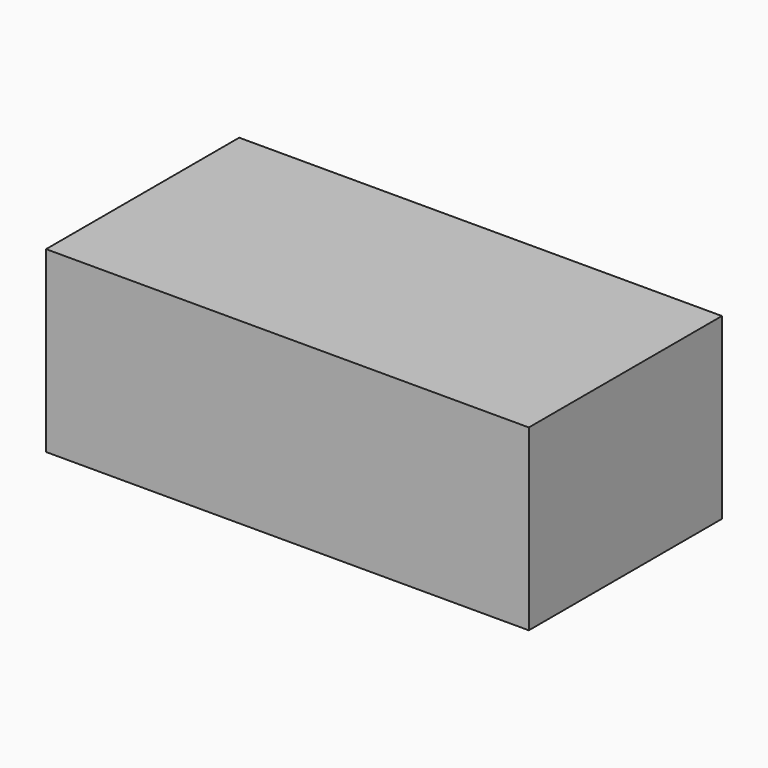
from build123d import *

# Parameters (mm, degrees)
F0_W     = 18
F0_H     = 130
F0_H_2   = 18
F0_W_2   = 301
F0_W_3   = 445
F1_DEPTH = 400


with BuildPart() as f1:
    # F0 (on Front) → F1 (new body)
    with BuildSketch(Plane.XZ):
        with Locations((-368.52581352, 45.3137154579)):
            Rectangle(F0_W, F0_H)
        with Locations((-368.52581352, 249.3137154579)):
            Rectangle(F0_W, F0_H_2)
        with Locations((413.47418648, 249.3137154579)):
            Rectangle(F0_W, F0_H_2)
        with Locations((413.47418648, -28.6862845421)):
            Rectangle(F0_W, F0_H_2)
        with Locations((-209.02581352, 175.3137154579)):
            Rectangle(F0_W_2, F0_H)
        with Locations((413.47418648, 175.3137154579)):
            Rectangle(F0_W, F0_H)
        with Locations((181.97418648, 249.3137154579)):
            Rectangle(F0_W_3, F0_H_2)
        with Locations((-368.52581352, -28.6862845421)):
            Rectangle(F0_W, F0_H_2)
        with Locations((-49.52581352, 175.3137154579)):
            Rectangle(F0_W, F0_H)
        with Locations((181.97418648, 175.3137154579)):
            Rectangle(F0_W_3, F0_H)
        with Locations((-49.52581352, -28.6862845421)):
            Rectangle(F0_W, F0_H_2)
        with Locations((181.97418648, 45.3137154579)):
            Rectangle(F0_W_3, F0_H)
        with Locations((-209.02581352, 45.3137154579)):
            Rectangle(F0_W_2, F0_H)
        with Locations((-209.02581352, -28.6862845421)):
            Rectangle(F0_W_2, F0_H_2)
        with Locations((181.97418648, -28.6862845421)):
            Rectangle(F0_W_3, F0_H_2)
        with Locations((-368.52581352, 175.3137154579)):
            Rectangle(F0_W, F0_H)
        with Locations((-49.52581352, 45.3137154579)):
            Rectangle(F0_W, F0_H)
        with Locations((413.47418648, 45.3137154579)):
            Rectangle(F0_W, F0_H)
        with Locations((-209.02581352, 249.3137154579)):
            Rectangle(F0_W_2, F0_H_2)
        with Locations((-49.52581352, 249.3137154579)):
            Rectangle(F0_W, F0_H_2)
    extrude(amount=-F1_DEPTH)


solid = f1.part
